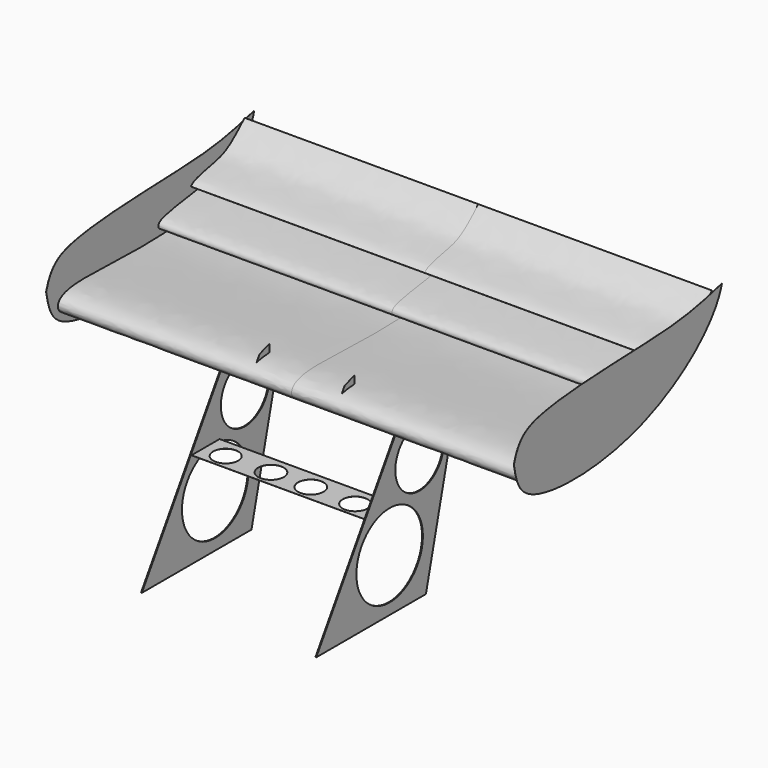
from build123d import *

# Parameters (mm, degrees)
F1_DEPTH  = 71.12
F4_DEPTH  = 0.0254
F7_DEPTH  = 0.00254
F9_R      = 12.6482207297
F9_R_2    = 9.2378405588
F10_DEPTH = 0.254
F11_W     = 26.3007320464
F11_H     = 10.6815285981
F11_R     = 3.8904548127
F11_R_2   = 3.8080305194
F12_DEPTH = 0.0254


with BuildPart() as f1:
    # F0 (on Right) → F1 (new body)
    with BuildSketch(Plane.YZ):
        with BuildLine():
            add(Edge.make_bspline(
                [(-42.1494469047, 19.817635417), (-49.3183190173, 19.8752920335), (-51.710544484, 24.6712683485), (-40.6779716908, 28.4609755435), (6.768457503, 22.3031323409), (19.6286236392, 38.2717386941), (19.9736207724, 38.8189032674)],
                knots=[0, 0, 0, 0, 0.1756440704, 0.345186476, 0.7622516335, 1, 1, 1, 1], degree=3))
            add(Edge.make_bspline(
                [(-42.1494469047, 19.817635417), (-36.0523147566, 19.6063198214), (-22.3432136826, 17.9422285176), (4.3785635206, 25.2027394334), (16.3508553297, 33.1589519896), (19.8458373147, 38.5986670475), (19.9736207724, 38.8189032674)],
                knots=[0, 0, 0, 0, 0.2810161543, 0.6120702222, 0.8572142034, 1, 1, 1, 1], degree=3))
        make_face()
        with BuildLine():
            add(Edge.make_bspline(
                [(-42.1494469047, 19.817635417), (-49.3183190173, 19.8752920335), (-51.710544484, 24.6712683485), (-40.6779716908, 28.4609755435), (6.768457503, 22.3031323409), (19.6286236392, 38.2717386941), (19.9736207724, 38.8189032674)],
                knots=[0, 0, 0, 0, 0.1756440704, 0.345186476, 0.7622516335, 1, 1, 1, 1], degree=3))
            add(Edge.make_bspline(
                [(-42.1494469047, 19.817635417), (-36.0523147566, 19.6063198214), (-22.3432136826, 17.9422285176), (4.3785635206, 25.2027394334), (16.3508553297, 33.1589519896), (19.8458373147, 38.5986670475), (19.9736207724, 38.8189032674)],
                knots=[0, 0, 0, 0, 0.2810161543, 0.6120702222, 0.8572142034, 1, 1, 1, 1], degree=3))
        make_face()
    extrude(amount=F1_DEPTH)

    # F6 (on offset) → F7 (join)
    with BuildSketch(Plane.YZ.offset(12.954)):
        Polygon((-48.322815448, 23.9823646843), (-43.7315292656, 25.5127958953), (-42.2776194662, 25.5127958953), (-42.2776194662, 28.9732696778), (-46.0271723568, 27.7234166861), align=None)
    extrude(amount=F7_DEPTH)

    # F9 (on offset) → F10 (join)
    with BuildSketch(Plane.YZ.offset(26.416)):
        Polygon((-32.2523228824, -29.2657632381), (-19.3148311228, 23.3177598566), (-41.8488197029, 21.3003922254), (-73.9601701498, -29.2657632381), align=None)
        with Locations((-46.0612215102, -13.2561167702)):
            Circle(F9_R, mode=Mode.SUBTRACT)
        with Locations((-34.6641279757, 8.6316652596)):
            Circle(F9_R_2, mode=Mode.SUBTRACT)
    extrude(amount=F10_DEPTH)



with BuildPart() as f1b:
    # F0 (on Right) → F1, piece 2 (new body)
    with BuildSketch(Plane.YZ):
        with BuildLine():
            add(Edge.make_bspline(
                [(19.5791386068, 41.1561541259), (17.5918973276, 38.0837009521), (10.1272510649, 31.7496136374), (-3.3353501446, 28.3503619252), (-11.771772173, 27.5945724419), (-11.9175385168, 29.743951235), (-9.7269056199, 31.4546093359), (6.6494711248, 33.2474684691), (12.3575854058, 34.8833452223), (15.9025522418, 37.5458454504), (17.0978084207, 38.740247488)],
                knots=[0, 0, 0, 0, 0.1650119923, 0.3437092214, 0.4662503945, 0.5150202321, 0.5847180609, 0.7709475672, 0.890830237, 1, 1, 1, 1], degree=3))
            Line((19.5791386068, 41.1561541259), (17.0978084207, 38.740247488))
        make_face()
    extrude(amount=F1_DEPTH)


with BuildPart() as f1c:
    # F0 (on Right) → F1, piece 3 (new body)
    with BuildSketch(Plane.YZ):
        with BuildLine():
            add(Edge.make_bspline(
                [(0.547135598, 34.7735621035), (0.9346234737, 35.1175093904), (2.0866290529, 36.192724707), (9.7651451176, 37.5846429854), (14.9920912939, 38.9565804985), (20.9535891326, 44.7749639921), (20.9772558943, 44.9013352054), (20.9643356502, 44.850230217)],
                knots=[0, 0, 0, 0, 0.1437234445, 0.4267935235, 0.7000159583, 0.9827794918, 1, 1, 1, 1], degree=3))
            add(Edge.make_bspline(
                [(0.547135598, 34.7735621035), (0.9586746018, 34.4447762862), (2.1729689411, 33.5195553553), (9.5297555135, 34.495270133), (16.4342109348, 39.2155529885), (19.570538246, 42.5770788345), (20.9643356502, 44.850230217)],
                knots=[0, 0, 0, 0, 0.1383797205, 0.4131369376, 0.7180786839, 1, 1, 1, 1], degree=3))
        make_face()
    extrude(amount=F1_DEPTH)


with BuildPart() as f4:
    # F3 (on offset) → F4 (new body)
    with BuildSketch(Plane.YZ.offset(71.1454)):
        with BuildLine():
            add(Edge.make_bspline(
                [(-54.4383525848, 28.8785286248), (-52.7618282993, 34.8661203744), (-44.9978138483, 40.0465936573), (-0.6185045915, 40.8256296781), (13.0451023579, 42.127110064), (24.704888463, 45.2647842467)],
                knots=[0, 0, 0, 0, 0.2402363477, 0.6535892071, 1, 1, 1, 1], degree=3))
            add(Edge.make_bspline(
                [(-54.4383525848, 28.8785286248), (-53.5240867346, 23.7845504621), (-50.5102167412, 14.7696433497), (-4.6842776087, 14.0726392103), (22.1677962691, 35.3139601648), (24.704888463, 45.2647842467)],
                knots=[0, 0, 0, 0, 0.2125680935, 0.6084774805, 1, 1, 1, 1], degree=3))
        make_face()
    extrude(amount=F4_DEPTH)


with BuildPart() as f12:
    # F11 (on Top) → F12 (new body)
    with BuildSketch(Plane.XY):
        with Locations((13.1503660232, -49.8635787517)):
            Rectangle(F11_W, F11_H)
        with Locations((6.0636042617, -50.2835512161)):
            Circle(F11_R, mode=Mode.SUBTRACT)
        with Locations((19.7054427117, -50.4594966769)):
            Circle(F11_R_2, mode=Mode.SUBTRACT)
        with Locations((13.1503660232, -49.8635787517)):
            Rectangle(F11_W, F11_H)
        with Locations((6.0636042617, -50.2835512161)):
            Circle(F11_R, mode=Mode.SUBTRACT)
        with Locations((19.7054427117, -50.4594966769)):
            Circle(F11_R_2, mode=Mode.SUBTRACT)
    extrude(amount=F12_DEPTH)


with BuildPart() as f1_1:
    add(f1.part)

    add(f1b.part)  # F13 merges F1b

    add(f1c.part)  # F13 merges F1c

    add(f12.part)  # F13 merges F12
    # F13: F1, F4, F12, F1b, F1c across plane
    add(f1.part.mirror(Plane.YZ))
    add(f4.part.mirror(Plane.YZ))
    add(f12.part.mirror(Plane.YZ))
    add(f1b.part.mirror(Plane.YZ))
    add(f1c.part.mirror(Plane.YZ))


solid = Compound([f4.part, f1_1.part])
